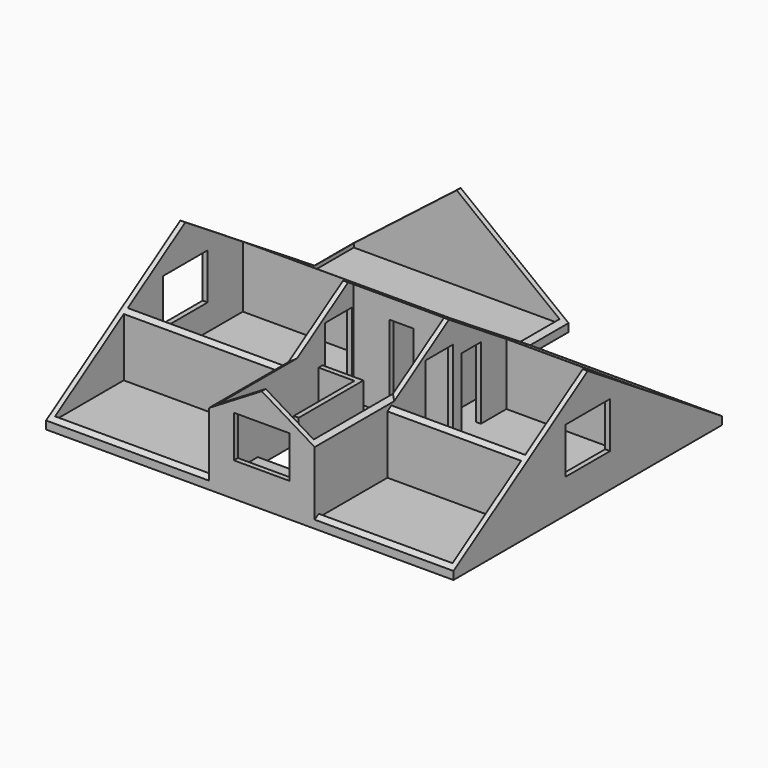
from build123d import *

# Parameters (mm, degrees)
F0_W      = 4013.2
F0_H      = 2184.4
F0_H_2    = 3657.6
F0_W_2    = 2438.4
F0_H_3    = 4318
F0_W_3    = 3403.6
F0_W_4    = 609.6
F0_H_4    = 1524
F0_W_5    = 5232.4
F0_H_5    = 3403.6
F0_W_6    = 965.2
F0_W_7    = 4749.8
F1_DEPTH  = 2743.2
F2_W      = 914.4
F2_H      = 1930.4
F3_DEPTH  = 203.2
F4_W      = 863.6
F4_H      = 2133.6
F5_DEPTH  = 127
F6_W      = 863.6
F6_H      = 2133.6
F7_DEPTH  = 127
F8_W      = 609.6
F8_H      = 2133.6
F9_DEPTH  = 127
F10_W     = 1422.4
F10_H     = 1168.4
F11_DEPTH = 127
F12_W     = 609.6
F12_H     = 1828.8
F13_DEPTH = 127
F14_W     = 1422.4
F14_H     = 1168.4
F15_DEPTH = 127
F16_W     = 609.6
F16_H     = 1828.8
F17_DEPTH = 127
F19_DEPTH = 10363.201
F21_DEPTH = 1219.2
F22_W     = 1422.4
F22_H     = 1066.8
F23_DEPTH = 127
F27_DEPTH = 1219.2


with BuildPart() as f1:
    # F0 (on Top) → F1 (new body)
    with BuildSketch(Plane.XY):
        Polygon((0, 9753.6), (0, 0), (10363.2, 0), (10363.2, 8534.4), (5486.4, 8534.4), (5486.4, 9753.6), align=None)
        with Locations((2133.6, 1219.2)):
            Rectangle(F0_W, F0_H, mode=Mode.SUBTRACT)
        with Locations((2133.6, 4267.2)):
            Rectangle(F0_W, F0_H_2, mode=Mode.SUBTRACT)
        with Locations((5486.4, 2286)):
            Rectangle(F0_W_2, F0_H_3, mode=Mode.SUBTRACT)
        with Locations((8534.4, 1219.2)):
            Rectangle(F0_W_3, F0_H, mode=Mode.SUBTRACT)
        with Locations((8534.4, 4267.2)):
            Rectangle(F0_W_3, F0_H_2, mode=Mode.SUBTRACT)
        with Locations((4572, 5334)):
            Rectangle(F0_W_4, F0_H_4, mode=Mode.SUBTRACT)
        with Locations((2743.2, 7924.8)):
            Rectangle(F0_W_5, F0_H_5, mode=Mode.SUBTRACT)
        with Locations((5486.4, 5334)):
            Rectangle(F0_W_6, F0_H_4, mode=Mode.SUBTRACT)
        with Locations((6400.8, 5334)):
            Rectangle(F0_W_4, F0_H_4, mode=Mode.SUBTRACT)
        with Locations((7861.3, 7315.2)):
            Rectangle(F0_W_7, F0_H, mode=Mode.SUBTRACT)
    extrude(amount=F1_DEPTH)

    # F2 (on Top) → F3 (join)
    with BuildSketch(Plane.XY):
        Polygon((0, 9753.6), (0, 0), (10363.2, 0), (10363.2, 8534.4), (5486.4, 8534.4), (5486.4, 9753.6), align=None)
        with Locations((4724.4, 2362.2)):
            Rectangle(F2_W, F2_H, mode=Mode.SUBTRACT)
    extrude(amount=-F3_DEPTH)

    # F4 (on face) → F5 (cut, through all)
    with BuildSketch(Plane(origin=(6705.6, 0, 0), x_dir=(0, -1, 0), z_dir=(-1, 0, 0))):
        with Locations((-3962.4, 1066.8)):
            Rectangle(F4_W, F4_H)
    extrude(amount=-F5_DEPTH, mode=Mode.SUBTRACT)

    # F6 (on face) → F7 (cut, through all)
    with BuildSketch(Plane.YZ.offset(4267.2)):
        with Locations((3962.4, 1066.8)):
            Rectangle(F6_W, F6_H)
    extrude(amount=-F7_DEPTH, mode=Mode.SUBTRACT)

    # F8 (on face) → F9 (cut, through all)
    with BuildSketch(Plane.XZ.offset(-4445)):
        with Locations((5486.4, 1066.8)):
            Rectangle(F8_W, F8_H)
    extrude(amount=-F9_DEPTH, mode=Mode.SUBTRACT)

    # F10 (on face) → F11 (cut, through all)
    with BuildSketch(Plane(origin=(10236.2, 0, 0), x_dir=(0, -1, 0), z_dir=(-1, 0, 0))):
        with Locations((-4267.2, 1244.6)):
            Rectangle(F10_W, F10_H)
    extrude(amount=-F11_DEPTH, mode=Mode.SUBTRACT)

    # F12 (on face) → F13 (cut, through all)
    with BuildSketch(Plane.YZ.offset(6832.6)):
        with Locations((4978.4, 914.4)):
            Rectangle(F12_W, F12_H)
    extrude(amount=-F13_DEPTH, mode=Mode.SUBTRACT)

    # F14 (on face) → F15 (cut, through all)
    with BuildSketch(Plane.YZ.offset(127)):
        with Locations((4267.2, 1244.6)):
            Rectangle(F14_W, F14_H)
    extrude(amount=-F15_DEPTH, mode=Mode.SUBTRACT)

    # F16 (on face) → F17 (cut, through all)
    with BuildSketch(Plane(origin=(4140.2, 0, 0), x_dir=(0, -1, 0), z_dir=(-1, 0, 0))):
        with Locations((-4978.4, 914.4)):
            Rectangle(F16_W, F16_H)
    extrude(amount=-F17_DEPTH, mode=Mode.SUBTRACT)

    # F18 (on face) → F19 (cut, through all)
    with BuildSketch(Plane.YZ.offset(10363.2)):
        Polygon((0, 2743.2), (0, 0), (4267.2, 2743.2), align=None)
        Polygon((8534.4, 2743.2), (4267.2, 2743.2), (8534.4, 0), align=None)
    extrude(amount=-F19_DEPTH, mode=Mode.SUBTRACT)

    # F20 (on face) → F21 (join)
    with BuildSketch(Plane.XY):
        Polygon((4267.2, 3454.4), (4267.2, 3327.4), (5181.6, 3327.4), (5181.6, 1397), (5308.6, 1397), (5308.6, 3454.4), align=None)
    extrude(amount=F21_DEPTH)

    # F22 (on face) → F23 (join)
    with BuildSketch(Plane.XZ):
        Polygon((4140.2, 1625.6), (4140.2, 0), (6832.6, 0), (6832.6, 1625.6), (5486.4, 2438.4), align=None)
        with Locations((5486.4, 1193.8)):
            Rectangle(F22_W, F22_H, mode=Mode.SUBTRACT)
    extrude(amount=-F23_DEPTH)

    # F24 (on face) → F25 (join, up to the next surface of F1)
    with BuildSketch(Plane(origin=(0, 127, 0), x_dir=(-1, 0, 0), z_dir=(0, 1, 0))):
        Polygon((-6832.6, 81.6428571429), (-6705.6, 81.6428571429), (-6705.6, 1702.279245283), (-6832.6, 1625.6), align=None)
        Polygon((-4267.2, 1702.279245283), (-4267.2, 81.6428571429), (-4140.2, 81.6428571429), (-4140.2, 1625.6), align=None)
    extrude(until=Until.NEXT)

    # F26 (on face) → F27 (cut)
    with BuildSketch(Plane(origin=(0, 9753.6, 0), x_dir=(-1, 0, 0), z_dir=(0, 1, 0))):
        Polygon((-5486.4, 0), (-2743.2, 2133.6), (0, 0), (0, 2743.2), (-5486.4, 2743.2), align=None)
    extrude(amount=-F27_DEPTH, mode=Mode.SUBTRACT)

    # F28 (on face) → F29 (join, up to the next surface of F1)
    with BuildSketch(Plane.XZ.offset(-8534.4)):
        Polygon((0, 0), (127, 0), (127, 98.7777777778), align=None)
    extrude(until=Until.NEXT)

    # F30 (on face) → F31 (join, up to the next surface of F1)
    with BuildSketch(Plane.XZ.offset(-8534.4)):
        Polygon((5359.4, 0), (5486.4, 0), (5359.4, 98.7777777778), align=None)
    extrude(until=Until.NEXT)


solid = f1.part
